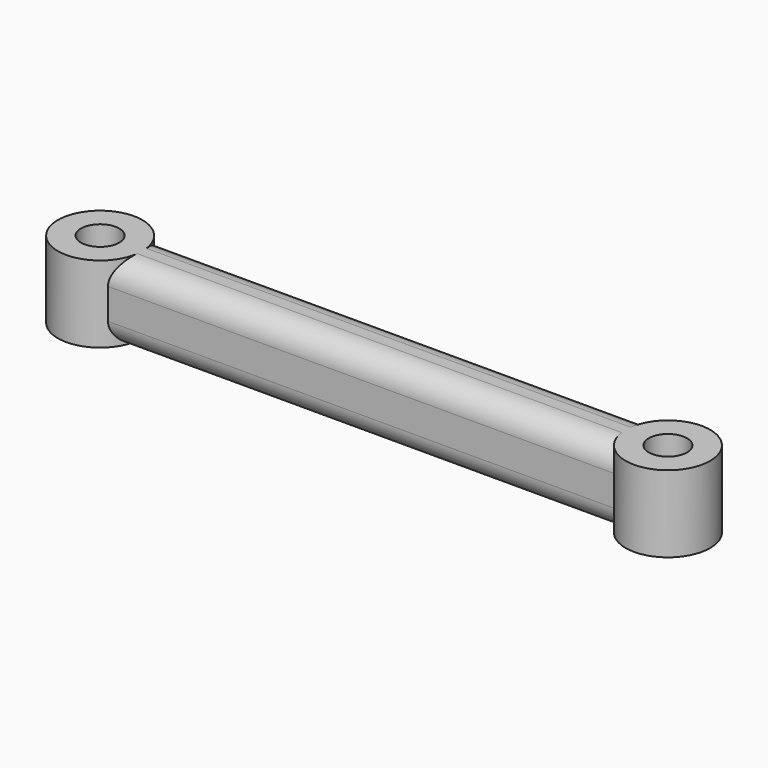
from build123d import *

# Parameters (mm, degrees)
F0_R     = 1.25
F1_DEPTH = 2.5
F2_R     = 1.5


with BuildPart() as f1:
    # F0 (on Top) → F1 (new body, symmetric)
    with BuildSketch(Plane.XY):
        with BuildLine():
            ThreePointArc((2.0116846174, 1.875), (2.5587724301, 1.0075632243), (2.75, 0))
            ThreePointArc((2.75, 0), (2.5587724301, -1.0075632243), (2.0116846174, -1.875))
            Line((2.0116846174, -1.875), (34.9883153826, -1.875))
            ThreePointArc((34.9883153826, -1.875), (34.25, 0), (34.9883153826, 1.875))
            Line((34.9883153826, 1.875), (2.0116846174, 1.875))
        make_face()
        with BuildLine():
            ThreePointArc((2.0116846174, -1.875), (2.5587724301, -1.0075632243), (2.75, 0))
            ThreePointArc((2.75, 0), (2.5587724301, 1.0075632243), (2.0116846174, 1.875))
            ThreePointArc((2.0116846174, 1.875), (-2.75, 0), (2.0116846174, -1.875))
        make_face()
        Circle(F0_R, mode=Mode.SUBTRACT)
        with BuildLine():
            ThreePointArc((39.75, 0), (38.0075632243, 2.5587724301), (34.9883153826, 1.875))
            ThreePointArc((34.9883153826, 1.875), (34.25, 0), (34.9883153826, -1.875))
            ThreePointArc((34.9883153826, -1.875), (38.0075632243, -2.5587724301), (39.75, 0))
        make_face()
        with Locations((37, 0)):
            Circle(F0_R, mode=Mode.SUBTRACT)
    extrude(amount=F1_DEPTH, both=True)

    # F2
    f2_edges = [f1.edges().sort_by_distance(p)[0] for p in [
        (18.5, 1.875, 2.5),
        (18.5, -1.875, 2.5),
        (18.5, -1.875, -2.5),
        (18.5, 1.875, -2.5),
    ]]
    fillet(f2_edges, radius=F2_R)


solid = f1.part
